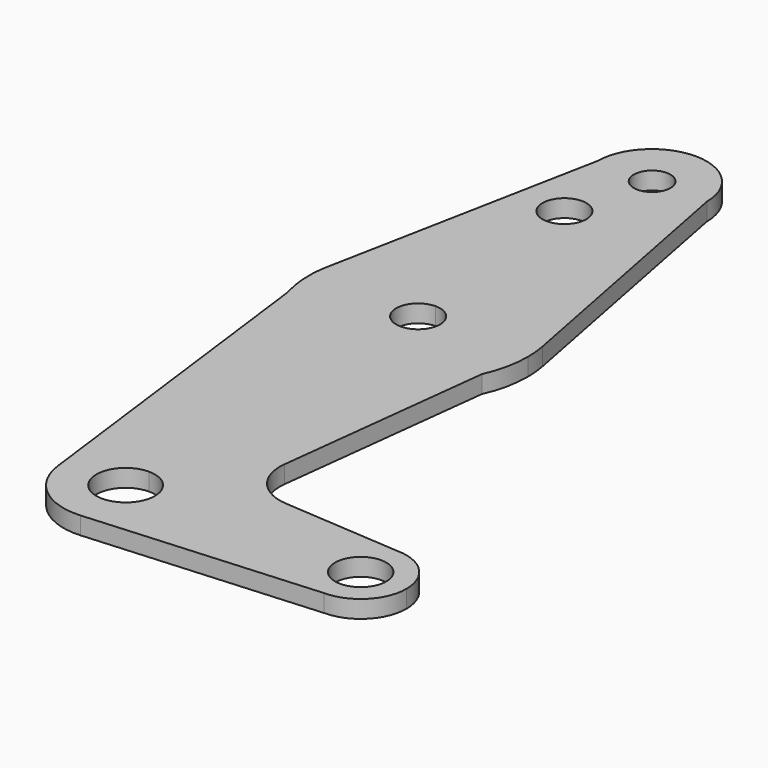
from build123d import *

# Parameters (mm, degrees)
F0_R     = 3.81
F1_DEPTH = 3.048
F2_DEPTH = 3.048


with BuildPart() as f1:
    # F0 (on Top) → F1 (new body)
    with BuildSketch(Plane.XY):
        with BuildLine():
            ThreePointArc((5.08, 0), (-3.5921024484, -3.5921024484), (0, 5.08))
            Line((0, 5.08), (0, 10.795))
            ThreePointArc((0, 10.795), (-8.0990763391, 7.1370153042), (-10.7092601728, -1.3578554974))
            ThreePointArc((-10.7092601728, -1.3578554974), (-6.8470170962, -8.3456804327), (0.760755928, -10.7681602615))
            ThreePointArc((0.760755928, -10.7681602615), (7.8976067654, -7.3593364088), (10.795, 0))
            Line((10.795, 0), (5.08, 0))
        make_face()
        with BuildLine():
            ThreePointArc((-10.7092601728, -1.3578554974), (-8.0990763391, 7.1370153042), (0, 10.795))
            Line((0, 10.795), (0, 44.45))
            ThreePointArc((0, 44.45), (-11.3525779785, 48.2022396005), (-18.2329677514, 57.9808164576))
            Line((-18.2329677514, 57.9808164576), (-10.7092601728, -1.3578554974))
        make_face()
        with BuildLine():
            Line((0, 44.45), (0, 10.795))
            ThreePointArc((0, 10.795), (7.6332177029, 7.6332177029), (10.795, 0))
            Line((10.795, 0), (32.8899903893, 0))
            ThreePointArc((32.8899903893, 0), (35.2148303137, 5.6126600757), (40.8274903893, 7.9375))
            Line((40.8274903893, 7.9375), (20.335469936, 9.3717284546))
            ThreePointArc((20.335469936, 9.3717284546), (14.7711479184, 12.2272266722), (12.9938829963, 18.2236321774))
            Line((12.9938829963, 18.2236321774), (17.3601908133, 55.65613138))
            ThreePointArc((17.3601908133, 55.65613138), (10.3314278488, 47.4948727401), (0, 44.45))
        make_face()
        with BuildLine():
            Line((32.8899903893, 0), (10.795, 0))
            ThreePointArc((10.795, 0), (7.8976067654, -7.3593364088), (0.760755928, -10.7681602615))
            Line((0.760755928, -10.7681602615), (40.8274903893, -7.9375))
            ThreePointArc((40.8274903893, -7.9375), (35.2148303137, -5.6126600757), (32.8899903893, 0))
        make_face()
        with BuildLine():
            ThreePointArc((-18.2329677514, 57.9808164576), (-11.3525779785, 48.2022396005), (0, 44.45))
            Line((0, 44.45), (0, 59.69))
            ThreePointArc((0, 59.69), (-3.81, 63.5), (0, 67.31))
            Line((0, 67.31), (0, 82.55))
            ThreePointArc((0, 82.55), (-12.1161952262, 78.2003507863), (-18.6994561701, 67.1376969281))
            ThreePointArc((-18.6994561701, 67.1376969281), (-18.9199487116, 65.7221702793), (-19.0334427381, 64.2940765289))
            Line((-19.0334427381, 64.2940765289), (-18.2329677514, 57.9808164576))
        make_face()
        with BuildLine():
            Line((0, 59.69), (0, 44.45))
            ThreePointArc((0, 44.45), (10.3314278488, 47.4948727401), (17.3601908133, 55.65613138))
            Line((17.3601908133, 55.65613138), (18.6994561701, 67.1376969281))
            ThreePointArc((18.6994561701, 67.1376969281), (12.1161952262, 78.2003507863), (0, 82.55))
            Line((0, 82.55), (0, 67.31))
            ThreePointArc((0, 67.31), (2.6940768363, 66.1940768363), (3.81, 63.5))
            ThreePointArc((3.81, 63.5), (2.6940768363, 60.8059231637), (0, 59.69))
        make_face()
        with BuildLine():
            ThreePointArc((40.8274903893, 7.9375), (35.2148303137, 5.6126600757), (32.8899903893, 0))
            ThreePointArc((32.8899903893, 0), (35.2148303137, -5.6126600757), (40.8274903893, -7.9375))
            ThreePointArc((40.8274903893, -7.9375), (46.440150465, -5.6126600757), (48.7649903893, 0))
            ThreePointArc((48.7649903893, 0), (46.440150465, 5.6126600757), (40.8274903893, 7.9375))
        make_face()
        with BuildLine():
            ThreePointArc((45.2724903893, 0), (40.8274903893, -4.445), (36.3824903893, 0))
            ThreePointArc((36.3824903893, 0), (40.8274903893, 4.445), (45.2724903893, 0))
        make_face(mode=Mode.SUBTRACT)
        with BuildLine():
            ThreePointArc((-19.0334427381, 64.2940765289), (-18.8986944225, 61.1037844163), (-18.2329677514, 57.9808164576))
            Line((-18.2329677514, 57.9808164576), (-19.0334427381, 64.2940765289))
        make_face()
        with BuildLine():
            Line((18.6994561701, 67.1376969281), (17.3601908133, 55.65613138))
            ThreePointArc((17.3601908133, 55.65613138), (18.6227567104, 59.488088672), (19.05, 63.5))
            ThreePointArc((19.05, 63.5), (18.9621615334, 65.3272739202), (18.6994561701, 67.1376969281))
        make_face()
        with BuildLine():
            ThreePointArc((0, 82.55), (12.1161952262, 78.2003507863), (18.6994561701, 67.1376969281))
            Line((18.6994561701, 67.1376969281), (9.5247420262, 114.3))
            ThreePointArc((9.5247420262, 114.3), (9.5249355063, 114.2649490813), (9.525, 114.2298976878))
            ThreePointArc((9.525, 114.2298976878), (6.7351920908, 107.494705597), (0, 104.7048976878))
            Line((0, 104.7048976878), (0, 100.0252))
            Line((0, 100.0252), (0, 82.55))
        make_face()
        with BuildLine():
            ThreePointArc((-18.6994561701, 67.1376969281), (-12.1161952262, 78.2003507863), (0, 82.55))
            Line((0, 82.55), (0, 100.0252))
            Line((0, 100.0252), (0, 104.7048976878))
            ThreePointArc((0, 104.7048976878), (-6.7599315649, 107.5195362789), (-9.5247420262, 114.3))
            Line((-9.5247420262, 114.3), (-18.6994561701, 67.1376969281))
        make_face()
        with Locations((-3.81, 100.0252)):
            Circle(F0_R, mode=Mode.SUBTRACT)
        with BuildLine():
            ThreePointArc((9.525, 114.2298976878), (9.5249355063, 114.2649490813), (9.5247420262, 114.3))
            ThreePointArc((9.5247420262, 114.3), (0, 123.7548976878), (-9.5247420262, 114.3))
            ThreePointArc((-9.5247420262, 114.3), (-6.7599315649, 107.5195362789), (0, 104.7048976878))
            ThreePointArc((0, 104.7048976878), (6.7351920908, 107.494705597), (9.525, 114.2298976878))
        make_face()
        with BuildLine():
            ThreePointArc((3.175, 114.3), (2.2450640303, 112.0549359697), (0, 111.125))
            ThreePointArc((0, 111.125), (-2.2450640303, 116.5450640303), (3.175, 114.3))
        make_face(mode=Mode.SUBTRACT)
    extrude(amount=F1_DEPTH)

    # F0 (on Top) → F2 (join)
    with BuildSketch(Plane.XY):
        with BuildLine():
            Line((0, 10.795), (0, 5.08))
            ThreePointArc((0, 5.08), (3.5921024484, 3.5921024484), (5.08, 0))
            Line((5.08, 0), (10.795, 0))
            ThreePointArc((10.795, 0), (7.6332177029, 7.6332177029), (0, 10.795))
        make_face()
    extrude(amount=F2_DEPTH)


solid = f1.part
